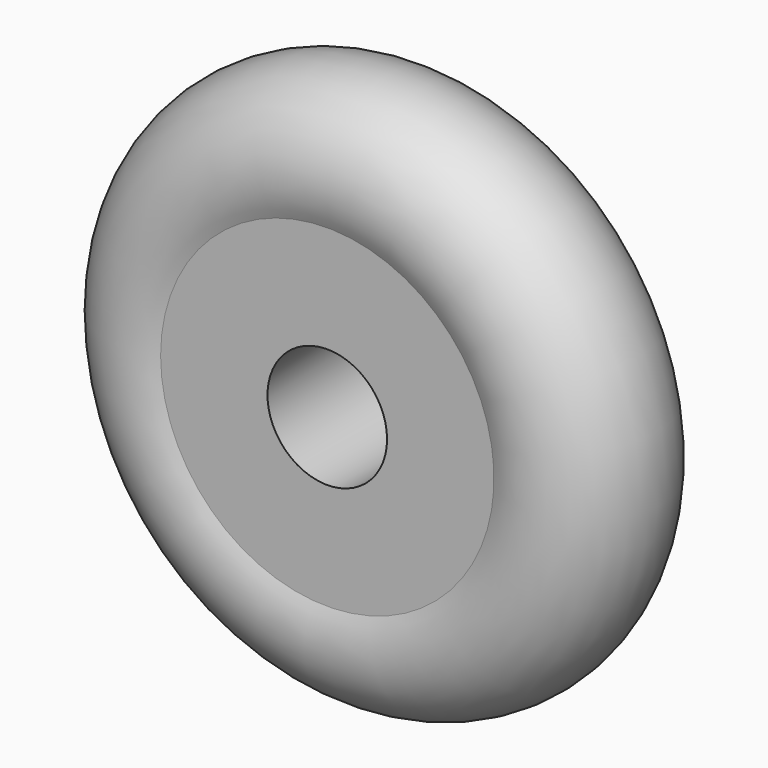
from build123d import *

# Parameters (mm, degrees)
F0_R     = 7
F1_DEPTH = 5
F2_R     = 2.75
F4_R     = 2.1
F5_DEPTH = 5.251


with BuildPart() as f1:
    # F0 (on Front) → F1 (new body)
    with BuildSketch(Plane.XZ):
        Circle(F0_R)
    extrude(amount=F1_DEPTH)

    # F2 (on Top) → F3 (revolve)
    with BuildSketch(Plane.XY):
        with Locations((-7, -2.5)):
            Circle(F2_R)
    revolve(axis=Axis((0, -5, 0), (0, -1, 0)))

    # F4 (on face) → F5 (cut, through all)
    with BuildSketch(Plane.XZ.offset(5)):
        Circle(F4_R)
    extrude(amount=-F5_DEPTH, mode=Mode.SUBTRACT)


solid = f1.part
